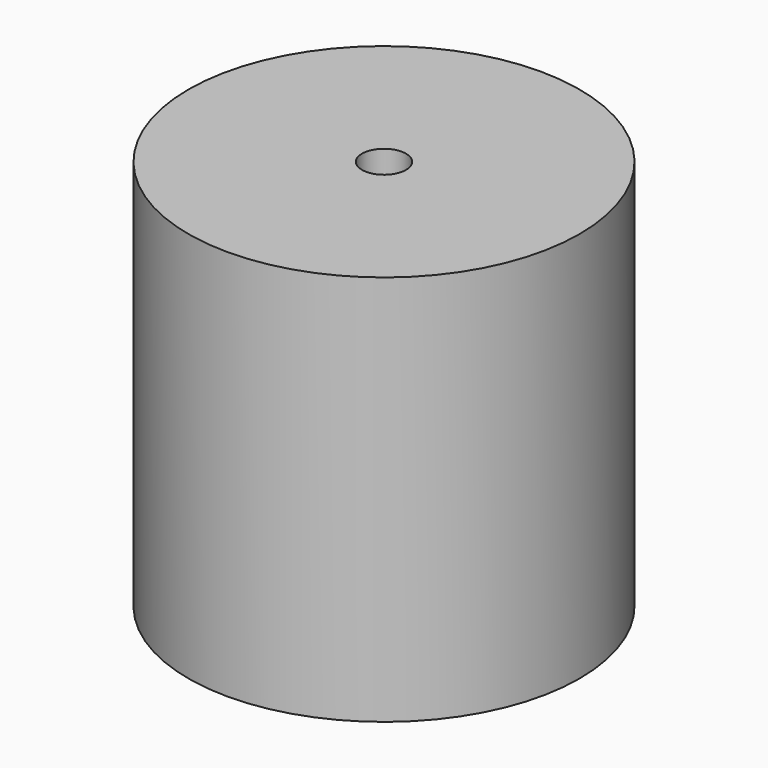
from build123d import *

# Parameters (mm, degrees)
SKETCH_R     = 10
PAD_DEPTH    = 20
SKETCH001_R  = 1.125
POCKET_DEPTH = 18


with BuildPart() as part:
    # Sketch → Pad (new body)
    with BuildSketch(Plane.XY):
        Circle(SKETCH_R)
    extrude(amount=PAD_DEPTH)

    # Sketch001 (on Face3 of Pad) → Pocket (cut)
    with BuildSketch(Plane.XY.offset(20)):
        Circle(SKETCH001_R)
    extrude(amount=-POCKET_DEPTH, mode=Mode.SUBTRACT)


solid = part.part
